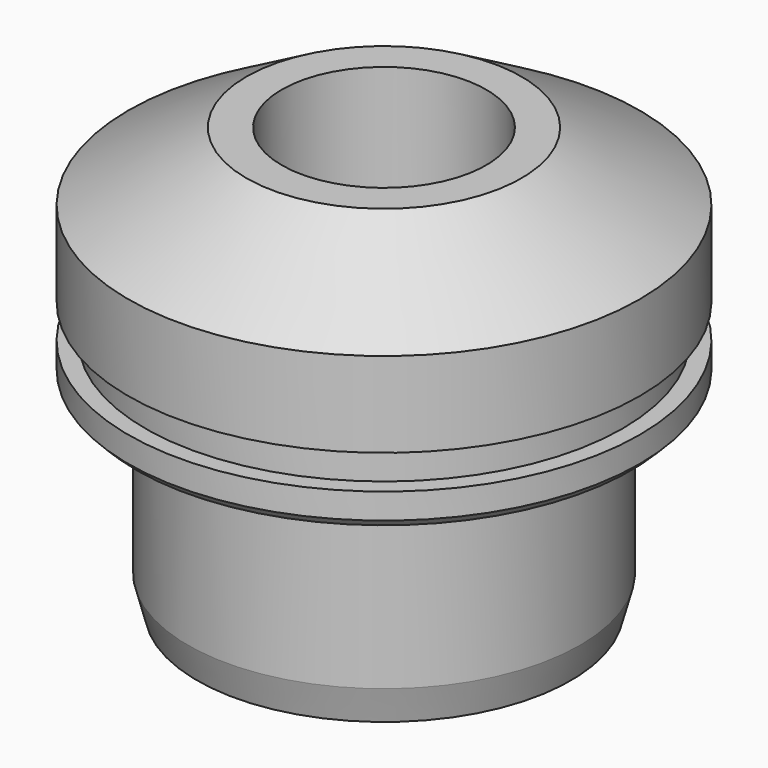
from build123d import *

# Parameters (mm, degrees)
F2_SIZE2 = 0.535898
F2_SIZE  = 2
F3_SIZE  = 0.5


with BuildPart() as f1:
    # F0 (on Front) → F1 (revolve)
    with BuildSketch(Plane.XZ):
        Polygon((-6, 15), (-6, 25), (-8.071797, 25), (-15, 21), (-15, 16), (-14, 16), (-14, 14), (-15, 14), (-15, 12), (-11.5, 12), (-11.5, 0), (-4, 0), (-4, 15), align=None)
    revolve(axis=Axis((0, 0, 15.110009), (0, 0, 1)))

    # F2
    f2_edges = [f1.edges().sort_by_distance(p)[0] for p in [
        (11.5, 0, 0),
    ]]
    chamfer(f2_edges, length=F2_SIZE, length2=F2_SIZE2)

    # F3
    f3_edges = [f1.edges().sort_by_distance(p)[0] for p in [
        (15, 0, 12),
    ]]
    chamfer(f3_edges, length=F3_SIZE)


solid = f1.part
